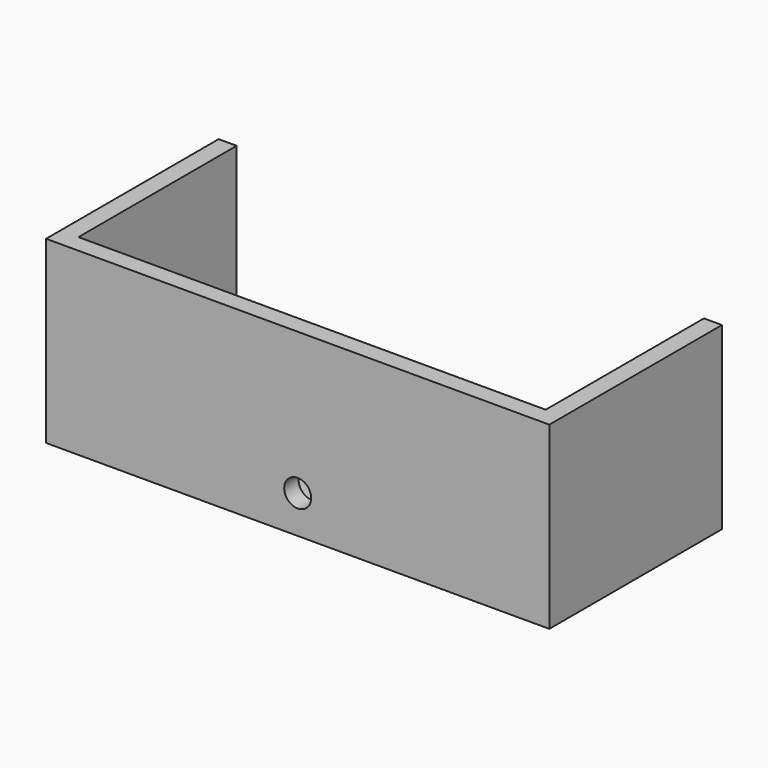
from build123d import *

# Parameters (mm, degrees)
F0_W     = 71.0946
F0_H     = 30.48
F1_DEPTH = 25.4
F2_T     = -2.54
F4_D     = 3.81


with BuildPart() as f1:
    # F0 (on Top) → F1 (new body)
    with BuildSketch(Plane.XY):
        Rectangle(F0_W, F0_H)
    extrude(amount=F1_DEPTH)

    # F2
    f2_openings = [f1.faces().sort_by_distance(p)[0] for p in [
        (0, 15.24, 12.7),
        (0, 0, 25.4),
    ]]
    offset(amount=F2_T, openings=f2_openings)

    # F4 (through all)
    with Locations(Plane.XZ.offset(15.24)):
        with Locations((0, 5.320419)):
            Hole(F4_D / 2)


solid = f1.part
